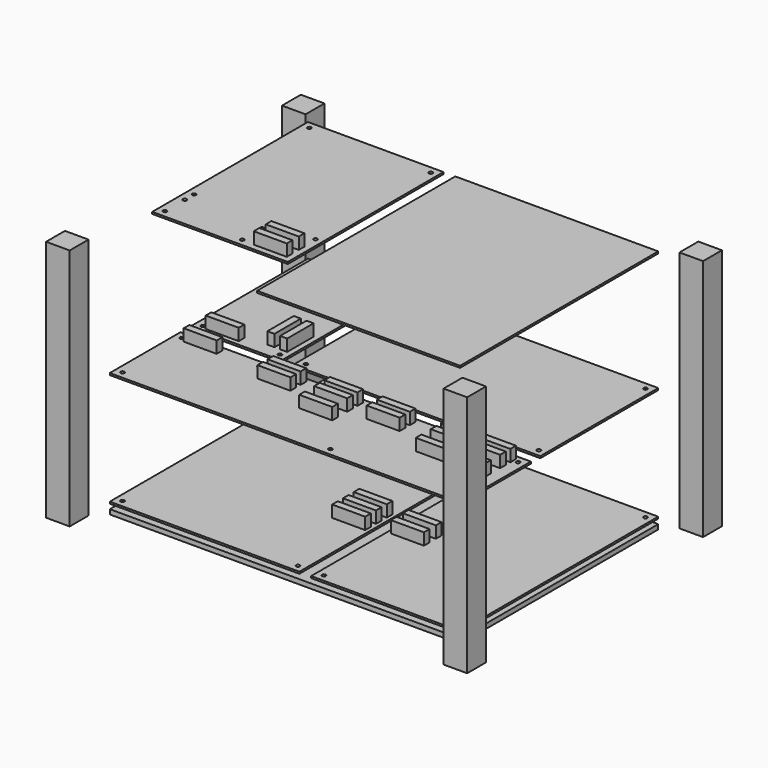
from build123d import *

# Parameters (mm, degrees)
SKETCH_W         = 297
SKETCH_H         = 210
EXTRUDE_DEPTH    = 4
SKETCH003_W      = 20
SKETCH003_H      = 20
EXTRUDE003_DEPTH = 206
SKETCH010_W      = 209.545
SKETCH010_H      = 125
SKETCH010_R      = 1.6
EXTRUDE010_DEPTH = 1.6
SKETCH009_W      = 28
SKETCH009_H      = 6
SKETCH009_W_2    = 6
SKETCH009_H_2    = 28
EXTRUDE009_DEPTH = 10
SKETCH008_W      = 77.455
SKETCH008_H      = 125
SKETCH008_R      = 1.6
EXTRUDE008_DEPTH = 1.6
SKETCH004_W      = 297
SKETCH004_H      = 75
SKETCH004_R      = 1.6
EXTRUDE004_DEPTH = 1.6
SKETCH005_W      = 28
SKETCH005_H      = 6
EXTRUDE005_DEPTH = 10
SKETCH002_W      = 160.74
SKETCH002_H      = 210
SKETCH002_R      = 1.6
EXTRUDE002_DEPTH = 1.6
SKETCH007_W      = 28
SKETCH007_H      = 6
EXTRUDE007_DEPTH = 10
SKETCH001_W      = 126.265
SKETCH001_H      = 210
SKETCH001_R      = 1.6
EXTRUDE001_DEPTH = 1.6
SKETCH006_W      = 28
SKETCH006_H      = 6
EXTRUDE006_DEPTH = 10
SKETCH012_W      = 172.065
SKETCH012_H      = 210
EXTRUDE012_DEPTH = 1.6
SKETCH013_W      = 28
SKETCH013_H      = 6
EXTRUDE013_DEPTH = 10
SKETCH011_W      = 114.935
SKETCH011_H      = 165
SKETCH011_R      = 1.6
EXTRUDE011_DEPTH = 1.6


with BuildPart() as extrude_body:
    # Sketch → Extrude (new body)
    with BuildSketch(Plane.XY):
        with Locations((148.5, 105)):
            Rectangle(SKETCH_W, SKETCH_H)
    extrude(amount=EXTRUDE_DEPTH)


with BuildPart() as extrude003:
    # Sketch003 → Extrude003 (new body)
    with BuildSketch(Plane.XY):
        with Locations((-20, -20)):
            Rectangle(SKETCH003_W, SKETCH003_H)
        with Locations((317, -20)):
            Rectangle(SKETCH003_W, SKETCH003_H)
        with Locations((317, 230)):
            Rectangle(SKETCH003_W, SKETCH003_H)
        with Locations((-20, 230)):
            Rectangle(SKETCH003_W, SKETCH003_H)
    extrude(amount=EXTRUDE003_DEPTH)


with BuildPart() as rf16:
    # Sketch010 → Extrude010 (new body)
    with BuildSketch(Plane.XY.offset(104)):
        with Locations((192.2275, 147.5)):
            Rectangle(SKETCH010_W, SKETCH010_H)
        with Locations((93.455, 204)):
            Circle(SKETCH010_R, mode=Mode.SUBTRACT)
        with Locations((291, 204)):
            Circle(SKETCH010_R, mode=Mode.SUBTRACT)
        with Locations((291, 91)):
            Circle(SKETCH010_R, mode=Mode.SUBTRACT)
        with Locations((93.455, 91)):
            Circle(SKETCH010_R, mode=Mode.SUBTRACT)
    extrude(amount=EXTRUDE010_DEPTH)


with BuildPart() as extrude009:
    # Sketch009 (on Face10 of Extrude008) → Extrude009 (new body)
    with BuildSketch(Plane.XY.offset(105.6)):
        with Locations((24.13, 91.985)):
            Rectangle(SKETCH009_W, SKETCH009_H)
        with Locations((59.055, 110.94)):
            Rectangle(SKETCH009_W_2, SKETCH009_H_2)
        with Locations((69.85, 110.94)):
            Rectangle(SKETCH009_W_2, SKETCH009_H_2)
    extrude(amount=EXTRUDE009_DEPTH)


with BuildPart() as clock:
    # Sketch008 → Extrude008 (new body)
    with BuildSketch(Plane.XY.offset(104)):
        with Locations((38.7275, 147.5)):
            Rectangle(SKETCH008_W, SKETCH008_H)
        with Locations((6, 204)):
            Circle(SKETCH008_R, mode=Mode.SUBTRACT)
        with Locations((6, 91)):
            Circle(SKETCH008_R, mode=Mode.SUBTRACT)
        with Locations((71.455, 91)):
            Circle(SKETCH008_R, mode=Mode.SUBTRACT)
        with Locations((71.455, 204)):
            Circle(SKETCH008_R, mode=Mode.SUBTRACT)
    extrude(amount=EXTRUDE008_DEPTH)

    # Fusion: union Extrude009
    add(extrude009.part)


with BuildPart() as extrude004:
    # Sketch004 → Extrude004 (new body)
    with BuildSketch(Plane.XY.offset(104)):
        with Locations((148.5, 37.5)):
            Rectangle(SKETCH004_W, SKETCH004_H)
        with Locations((6, 69)):
            Circle(SKETCH004_R, mode=Mode.SUBTRACT)
        with Locations((6, 6)):
            Circle(SKETCH004_R, mode=Mode.SUBTRACT)
        with Locations((291, 69)):
            Circle(SKETCH004_R, mode=Mode.SUBTRACT)
        with Locations((291, 6)):
            Circle(SKETCH004_R, mode=Mode.SUBTRACT)
        with Locations((71.45, 69)):
            Circle(SKETCH004_R, mode=Mode.SUBTRACT)
        with Locations((182.245, 6)):
            Circle(SKETCH004_R, mode=Mode.SUBTRACT)
    extrude(amount=EXTRUDE004_DEPTH)


with BuildPart() as obj1:
    # Sketch005 (on Face12 of Extrude004) → Extrude005 (new body)
    with BuildSketch(Plane.XY.offset(105.6)):
        with Locations((187.88, 68.65)):
            Rectangle(SKETCH005_W, SKETCH005_H)
        with Locations((187.88, 57.855)):
            Rectangle(SKETCH005_W, SKETCH005_H)
        with Locations((143.44, 68.65)):
            Rectangle(SKETCH005_W, SKETCH005_H)
        with Locations((143.44, 57.855)):
            Rectangle(SKETCH005_W, SKETCH005_H)
        with Locations((143.44, 41.98)):
            Rectangle(SKETCH005_W, SKETCH005_H)
        with Locations((24.13, 68.65)):
            Rectangle(SKETCH005_W, SKETCH005_H)
        with Locations((273.05, 68.65)):
            Rectangle(SKETCH005_W, SKETCH005_H)
        with Locations((273.05, 57.855)):
            Rectangle(SKETCH005_W, SKETCH005_H)
        with Locations((273.05, 41.98)):
            Rectangle(SKETCH005_W, SKETCH005_H)
        with Locations((95.28, 68.65)):
            Rectangle(SKETCH005_W, SKETCH005_H)
        with Locations((95.28, 57.855)):
            Rectangle(SKETCH005_W, SKETCH005_H)
        with Locations((242.252, 68.65)):
            Rectangle(SKETCH005_W, SKETCH005_H)
        with Locations((242.252, 57.855)):
            Rectangle(SKETCH005_W, SKETCH005_H)
        with Locations((242.252, 41.98)):
            Rectangle(SKETCH005_W, SKETCH005_H)
    extrude(amount=EXTRUDE005_DEPTH)

    # Fusion001: union Extrude004
    add(extrude004.part)


with BuildPart() as extrude002:
    # Sketch002 → Extrude002 (new body)
    with BuildSketch(Plane.XY.offset(8)):
        with Locations((80.37, 105)):
            Rectangle(SKETCH002_W, SKETCH002_H)
        with Locations((6, 204)):
            Circle(SKETCH002_R, mode=Mode.SUBTRACT)
        with Locations((154.74, 204)):
            Circle(SKETCH002_R, mode=Mode.SUBTRACT)
        with Locations((154.74, 6)):
            Circle(SKETCH002_R, mode=Mode.SUBTRACT)
        with Locations((6, 6)):
            Circle(SKETCH002_R, mode=Mode.SUBTRACT)
    extrude(amount=EXTRUDE002_DEPTH)


with BuildPart() as obj2:
    # Sketch007 (on Face10 of Extrude002) → Extrude007 (new body)
    with BuildSketch(Plane.XY.offset(9.6)):
        with Locations((143.552, 99.603)):
            Rectangle(SKETCH007_W, SKETCH007_H)
        with Locations((143.552, 88.173)):
            Rectangle(SKETCH007_W, SKETCH007_H)
        with Locations((143.552, 76.743)):
            Rectangle(SKETCH007_W, SKETCH007_H)
    extrude(amount=EXTRUDE007_DEPTH)

    # Fusion002: union Extrude002
    add(extrude002.part)


with BuildPart() as extrude001:
    # Sketch001 → Extrude001 (new body)
    with BuildSketch(Plane.XY.offset(8)):
        with Locations((233.8675, 105)):
            Rectangle(SKETCH001_W, SKETCH001_H)
        with Locations((176.735, 204)):
            Circle(SKETCH001_R, mode=Mode.SUBTRACT)
        with Locations((291, 204)):
            Circle(SKETCH001_R, mode=Mode.SUBTRACT)
        with Locations((291, 6)):
            Circle(SKETCH001_R, mode=Mode.SUBTRACT)
        with Locations((176.735, 6)):
            Circle(SKETCH001_R, mode=Mode.SUBTRACT)
    extrude(amount=EXTRUDE001_DEPTH)


with BuildPart() as ula8:
    # Sketch006 (on Face10 of Extrude001) → Extrude006 (new body)
    with BuildSketch(Plane.XY.offset(9.6)):
        with Locations((187.88, 96.255)):
            Rectangle(SKETCH006_W, SKETCH006_H)
        with Locations((187.88, 83.555)):
            Rectangle(SKETCH006_W, SKETCH006_H)
    extrude(amount=EXTRUDE006_DEPTH)

    # Fusion003: union Extrude001
    add(extrude001.part)


with BuildPart() as extrude012:
    # Sketch012 → Extrude012 (new body)
    with BuildSketch(Plane.XY.offset(206)):
        with Locations((210.9675, 105)):
            Rectangle(SKETCH012_W, SKETCH012_H)
    extrude(amount=EXTRUDE012_DEPTH)


with BuildPart() as extrude013:
    # Sketch013 (on Face14 of Extrude011) → Extrude013 (new body)
    with BuildSketch(Plane.XY.offset(207.6)):
        with Locations((95.885, 65.947)):
            Rectangle(SKETCH013_W, SKETCH013_H)
        with Locations((95.885, 53.247)):
            Rectangle(SKETCH013_W, SKETCH013_H)
    extrude(amount=EXTRUDE013_DEPTH)


with BuildPart() as mem:
    # Sketch011 → Extrude011 (new body)
    with BuildSketch(Plane.XY.offset(206)):
        with Locations((57.4675, 127.5)):
            Rectangle(SKETCH011_W, SKETCH011_H)
        with Locations((6, 204)):
            Circle(SKETCH011_R, mode=Mode.SUBTRACT)
        with Locations((108.935, 204)):
            Circle(SKETCH011_R, mode=Mode.SUBTRACT)
        with Locations((6, 51)):
            Circle(SKETCH011_R, mode=Mode.SUBTRACT)
        with Locations((6, 72)):
            Circle(SKETCH011_R, mode=Mode.SUBTRACT)
        with Locations((71.47, 72)):
            Circle(SKETCH011_R, mode=Mode.SUBTRACT)
        with Locations((71.47, 51)):
            Circle(SKETCH011_R, mode=Mode.SUBTRACT)
        with Locations((108.935, 81.822)):
            Circle(SKETCH011_R, mode=Mode.SUBTRACT)
        with Locations((6, 81.822)):
            Circle(SKETCH011_R, mode=Mode.SUBTRACT)
    extrude(amount=EXTRUDE011_DEPTH)

    # Fusion004: union Extrude013
    add(extrude013.part)


solid = Compound([extrude_body.part, extrude003.part, rf16.part, clock.part, obj1.part, obj2.part, ula8.part, extrude012.part, mem.part])
